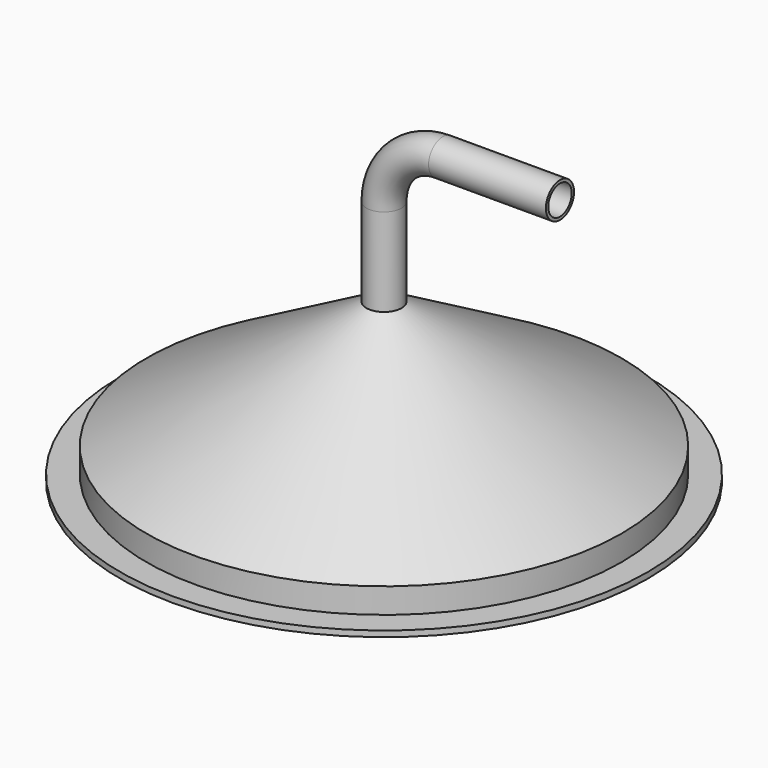
from build123d import *

# Parameters (mm, degrees)
F1_FACE_R   = 15.24
F1_FACE_R_2 = 12.7


with BuildPart() as f1:
    # F0 (on Front) → F1 (revolve)
    with BuildSketch(Plane.XZ):
        Polygon((203.2, 25.4), (203.2, 0), (228.6, 0), (228.6, 5.08), (205.74, 5.08), (205.74, 26.8664696837), (15.24, 136.8516959644), (12.7, 136.8516959644), (12.7, 135.3852262806), align=None)
    revolve(axis=Axis((0, 0, 47.617843118), (0, 0, 1)))

    # F3: sweep along a path in F2
    with BuildLine(Plane.XZ) as f3_path:
        Line((0, 136.8516959644), (0, 213.0516959644))
        ThreePointArc((0, 213.0516959644), (14.8789755157, 248.9727204486), (50.8, 263.8516959644))
        Line((50.8, 263.8516959644), (152.4, 263.8516959644))
    # F1_face (on face) → F3 (sweep)
    with BuildSketch(Plane.XY.offset(136.8516959644)):
        Circle(F1_FACE_R)
        Circle(F1_FACE_R_2, mode=Mode.SUBTRACT)
    sweep(path=f3_path.line)


solid = f1.part
